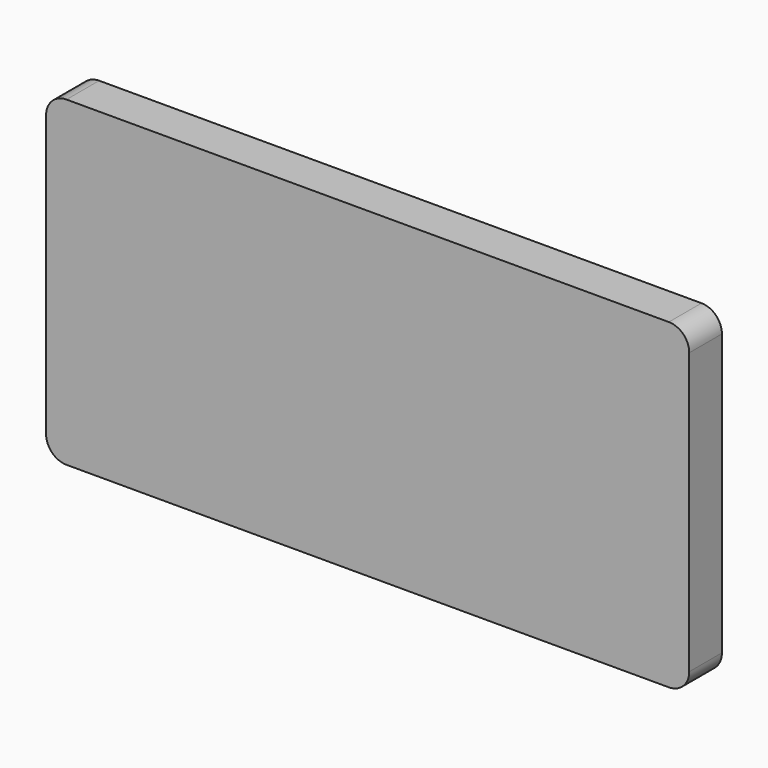
from build123d import *

# Parameters (mm, degrees)
F0_W     = 400
F0_H     = 200
F1_DEPTH = 25.4
F3_R     = 12.7
F4_R     = 12.7
F2_R     = 10
F5_DEPTH = 120


with BuildPart() as f1:
    # F0 (on Front) → F1 (new body)
    with BuildSketch(Plane.XZ):
        Rectangle(F0_W, F0_H)
    extrude(amount=F1_DEPTH)

    # F3
    f3_edges = [f1.edges().sort_by_distance(p)[0] for p in [
        (-200, -12.7, -100),
        (200, -12.7, -100),
        (200, -12.7, 100),
    ]]
    fillet(f3_edges, radius=F3_R)

    # F4
    f4_edges = [f1.edges().sort_by_distance(p)[0] for p in [
        (-200, -12.7, 100),
    ]]
    fillet(f4_edges, radius=F4_R)

    # F2 (on face) → F5 (join)
    with BuildSketch(Plane.XZ.offset(25.4)):
        with Locations((-82.030319, 0)):
            Circle(F2_R)
        Circle(F2_R)
        with Locations((75.467892, 0)):
            Circle(F2_R)
    extrude(amount=-F5_DEPTH)


solid = f1.part
